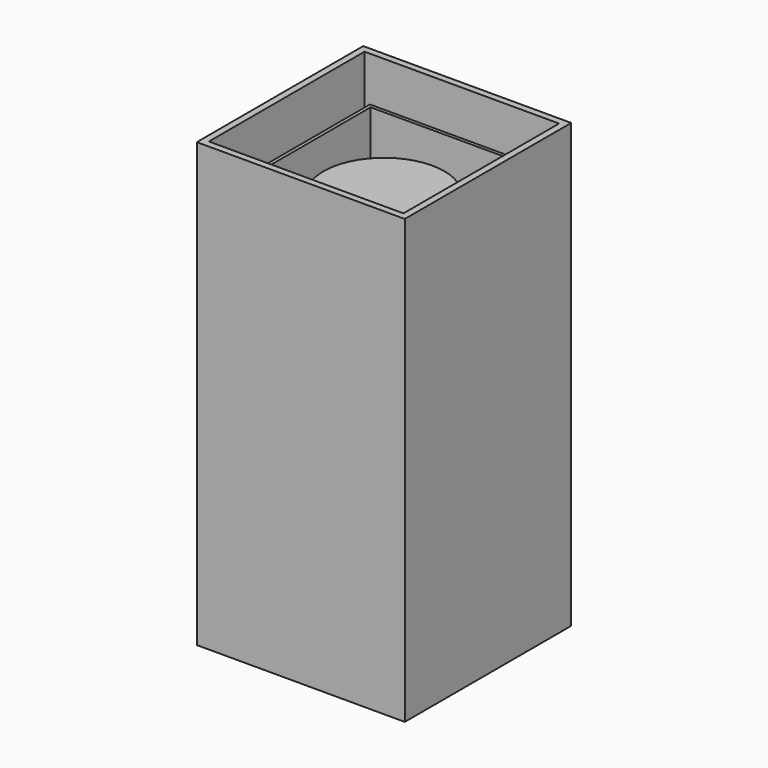
from build123d import *

# Parameters (mm, degrees)
F0_R          = 114.3
F1_DEPTH      = 584.2
F0_W          = 266.7
F0_H          = 266.7
F0_W_2        = 254
F0_H_2        = 254
F2_DEPTH      = 635
F3_DEPTH      = 6.35
F0_W_3        = 393.7
F0_H_3        = 393.7
F0_W_4        = 368.3
F0_H_4        = 368.3
F4_DEPTH      = 685.8
F4_DEPTH_BACK = 152.4


with BuildPart() as f1:
    # F0 (on Top) → F1 (new body)
    with BuildSketch(Plane.XY):
        Circle(F0_R)
    extrude(amount=F1_DEPTH)


with BuildPart() as f2:
    # F0 (on Top) → F2 (new body)
    with BuildSketch(Plane.XY):
        Rectangle(F0_W, F0_H)
        Rectangle(F0_W_2, F0_H_2, mode=Mode.SUBTRACT)
    extrude(amount=F2_DEPTH)


with BuildPart() as f3:
    # F0 (on Top) → F3 (new body)
    with BuildSketch(Plane.XY):
        Rectangle(F0_W, F0_H)
        Rectangle(F0_W_2, F0_H_2, mode=Mode.SUBTRACT)
        Rectangle(F0_W_2, F0_H_2)
        Circle(F0_R, mode=Mode.SUBTRACT)
        Circle(F0_R)
    extrude(amount=-F3_DEPTH)


with BuildPart() as f4:
    # F0 (on Top) → F4 (new body, two sides)
    with BuildSketch(Plane.XY) as f4_sk:
        Rectangle(F0_W_3, F0_H_3)
        Rectangle(F0_W_4, F0_H_4, mode=Mode.SUBTRACT)
    extrude(amount=F4_DEPTH)
    extrude(f4_sk.sketch, amount=-F4_DEPTH_BACK)


solid = Compound([f1.part, f2.part, f3.part, f4.part])
